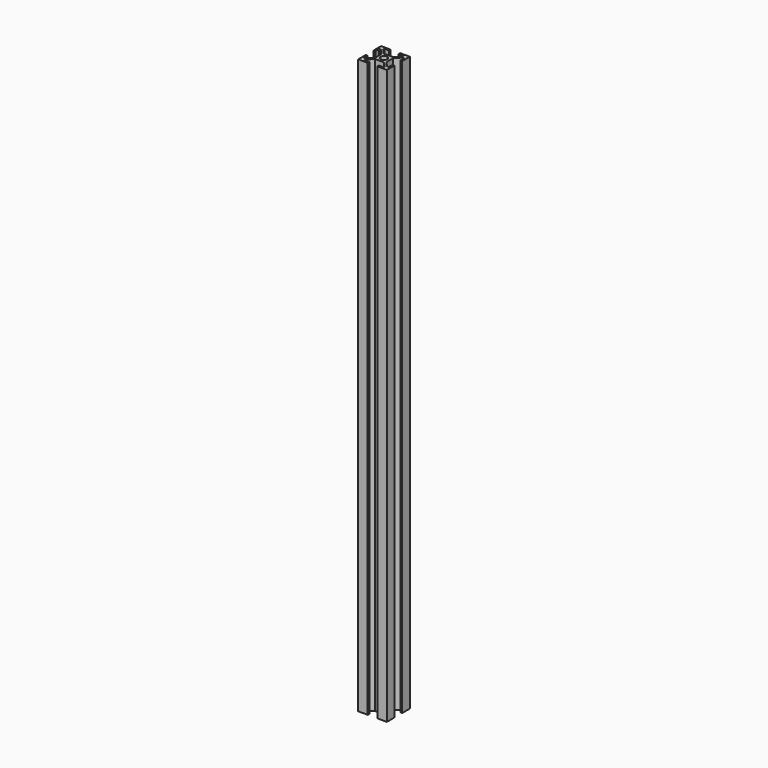
from build123d import *

# Parameters (mm, degrees)
F0_R     = 3.5
F1_DEPTH = 600


with BuildPart() as f1:
    # F0 (on Top) → F1 (new body)
    with BuildSketch(Plane.XY):
        Polygon((4.585786, 6), (-4.585786, 6), (-10, 11.414214), (-10, 13), (-5, 13), (-5, 15), (-15, 15), (-15, 5), (-13, 5), (-13, 10), (-11.414214, 10), (-6, 4.585786), (-6, -4.585786), (-11.414214, -10), (-13, -10), (-13, -5), (-15, -5), (-15, -15), (-5, -15), (-5, -13), (-10, -13), (-10, -11.414214), (-4.585786, -6), (4.585786, -6), (9.999999, -11.414215), (9.999999, -13.000001), (4.999999, -13.000001), (4.999999, -15.000001), (14.999999, -15.000001), (14.999999, -5.000001), (12.999999, -5.000001), (12.999999, -10.000001), (11.414212, -10.000001), (6, -4.585786), (6, 4.585786), (11.414212, 10.000001), (12.999999, 10.000001), (12.999999, 5.000001), (14.999999, 5.000001), (14.999999, 15.000001), (4.999999, 15.000001), (4.999999, 13.000001), (9.999999, 13.000001), (9.999999, 11.414215), align=None)
        Circle(F0_R, mode=Mode.SUBTRACT)
    extrude(amount=F1_DEPTH)


solid = f1.part
